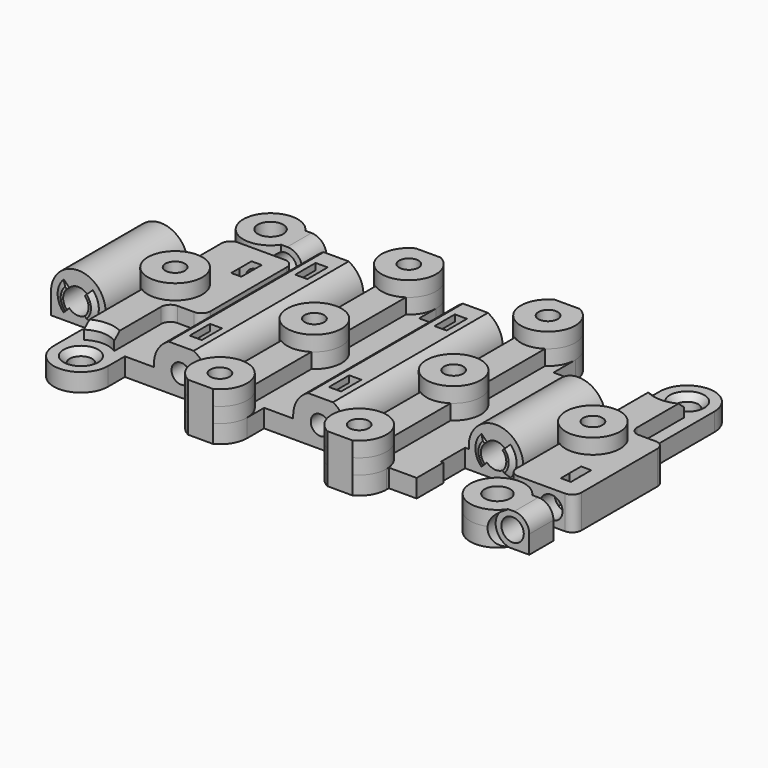
from build123d import *

# Parameters (mm, degrees)
SKETCH025_R             = 1.6
PAD024_DEPTH            = 20
PAD025_DEPTH            = 10
SKETCH031_R             = 1.6
PAD030_DEPTH            = 8.8
PAD031_DEPTH            = 4.2
SKETCH033_R             = 1.6
PAD032_DEPTH            = 20
BODY063_PLACEMENT_ANGLE = 180
BODY064_PLACEMENT_ANGLE = 180
SKETCH006_R             = 2.8
PAD006_DEPTH            = 10
SKETCH007_R             = 1.85
PAD007_DEPTH            = 11
PAD019_DEPTH            = 4.2
SKETCH020_R             = 1.6
PAD020_DEPTH            = 4
BODY010_PLACEMENT_ANGLE = 180
PAD001_DEPTH            = 3
PAD005_DEPTH            = 2.5
PAD009_DEPTH            = 17
PAD_DEPTH               = 0.5
PAD033_DEPTH            = 0.5
SKETCH035_R             = 4.5
PAD034_DEPTH            = 2.5
PAD035_DEPTH            = 32
SKETCH036_R             = 2.1
POCKET_DEPTH            = 40.201
SKETCH037_R             = 1.6
SKETCH037_R_2           = 2.1
SKETCH037_R_3           = 1.85
POCKET001_DEPTH         = 8.001
SKETCH040_W             = 32
SKETCH040_H             = 5
POCKET002_DEPTH         = 8.001
CHAMFER_1_SIZE2         = 0.9
CHAMFER_1_SIZE          = 0.49
CHAMFER_2_SIZE2         = 0.9
CHAMFER_2_SIZE          = 0.49
CHAMFER_3_SIZE2         = 0.9
CHAMFER_3_SIZE          = 0.49
CHAMFER_4_SIZE2         = 0.9
CHAMFER_4_SIZE          = 0.49
CHAMFER_5_SIZE2         = 0.9
CHAMFER_5_SIZE          = 0.49
CHAMFER_6_SIZE2         = 0.9
CHAMFER_6_SIZE          = 0.49
CHAMFER_7_SIZE2         = 0.9
CHAMFER_7_SIZE          = 0.49
CHAMFER_8_SIZE2         = 0.9
CHAMFER_8_SIZE          = 0.49
CHAMFER001_SIZE         = 1
FILLET_R                = 2.49
SKETCH041_R             = 4
PAD036_DEPTH            = 2.5
SKETCH042_R             = 3.4
PAD037_DEPTH            = 0.5
SKETCH043_R             = 2.15
POCKET003_DEPTH         = 3.001
CHAMFER002_SIZE2        = 0.9
CHAMFER002_SIZE         = 0.49


with BuildPart() as attachment_point_tunnel:
    # Sketch025 → Pad024 (new body)
    with BuildSketch(Plane.XY):
        Circle(SKETCH025_R)
    extrude(amount=PAD024_DEPTH)

    # Sketch026 (on Face2 of Pad024) → Pad025 (join)
    with BuildSketch(Plane(origin=(0, 0, 0), x_dir=(1, 0, 0), z_dir=(0, 0, -1))):
        Polygon((0, 3.233162), (-2.8, 1.616581), (-2.8, -1.616581), (0, -3.233162), (2.8, -1.616581), (2.8, 1.616581), align=None)
    extrude(amount=PAD025_DEPTH)


with BuildPart() as plate_attachment_point_8_tunnel:
    # Body055 base: copy of _Attachment_point_tunnel
    add(attachment_point_tunnel.part)


with BuildPart() as plate_attachment_point_8_tunnel_1:
    # Body055 placement: moved
    add(plate_attachment_point_8_tunnel.part.moved(Location((-34.5, 0, 5))))


with BuildPart() as special_attachment_point_tunnel:
    # Sketch031 → Pad030 (new body)
    with BuildSketch(Plane.XZ):
        Circle(SKETCH031_R)
    extrude(amount=PAD030_DEPTH)

    # Sketch032 (on Face3 of Pad030) → Pad031 (join)
    with BuildSketch(Plane.XZ.offset(8.8)):
        Polygon((2.8, 1.883419), (2.8, -8.116581), (-2.8, -8.116581), (-2.8, 1.883419), (-1, 2.92265), (-1, 7.92265), (1, 7.92265), (1, 2.92265), align=None)
    extrude(amount=PAD031_DEPTH)

    # Sketch033 (on Face12 of Pad031) → Pad032 (join)
    with BuildSketch(Plane.XZ.offset(13)):
        Circle(SKETCH033_R)
    extrude(amount=PAD032_DEPTH)


with BuildPart() as body063:
    # Body063 base: copy of _Special_attachment_point_tunnel
    add(special_attachment_point_tunnel.part)


with BuildPart() as body063_1:
    # Body063 placement: moved
    add(body063.part.moved(Location((2.3, 0, 3.5))).rotate(Axis((2.3, 0, 3.5), (0, 0, 1)), BODY063_PLACEMENT_ANGLE))


with BuildPart() as body064:
    # Body064 base: copy of _Special_attachment_point_tunnel
    add(special_attachment_point_tunnel.part)


with BuildPart() as body064_1:
    # Body064 placement: moved
    add(body064.part.moved(Location((-20.7, 0, 3.5))).rotate(Axis((-20.7, 0, 3.5), (0, 0, 1)), BODY064_PLACEMENT_ANGLE))


with BuildPart() as m3_adjust_screw_cutout:
    # Sketch006 → Pad006 (new body)
    with BuildSketch(Plane.XZ):
        Circle(SKETCH006_R)
    extrude(amount=PAD006_DEPTH)

    # Sketch007 (on Face2 of Pad006) → Pad007 (join)
    with BuildSketch(Plane(origin=(0, 0, 0), x_dir=(1, 0, 0), z_dir=(0, 1, 0))):
        Circle(SKETCH007_R)
    extrude(amount=PAD007_DEPTH)

    # Sketch019 (on Face5 of Pad007) → Pad019 (join)
    with BuildSketch(Plane(origin=(0, 11, 0), x_dir=(1, 0, 0), z_dir=(0, 1, 0))):
        Polygon((0, -3.233162), (-2.8, -1.616581), (-2.8, 10), (2.8, 10), (2.8, -1.616581), align=None)
    extrude(amount=PAD019_DEPTH)

    # Sketch020 (on Face11 of Pad019) → Pad020 (join)
    with BuildSketch(Plane(origin=(0, 15.2, 0), x_dir=(1, 0, 0), z_dir=(0, 1, 0))):
        Circle(SKETCH020_R)
    extrude(amount=PAD020_DEPTH)


with BuildPart() as plate_top_adjust_screw_cutout:
    # Body010 base: copy of _M3_adjust_screw_cutout
    add(m3_adjust_screw_cutout.part)


with BuildPart() as plate_top_adjust_screw_cutout_1:
    # Body010 placement: moved
    add(plate_top_adjust_screw_cutout.part.moved(Location((-30, 22.2, 2.75))).rotate(Axis((-30, 22.2, 2.75), (0, 0, 1)), BODY010_PLACEMENT_ANGLE))


with BuildPart() as plate_bottom_adjust_screw_cutout:
    # Body009 base: copy of _M3_adjust_screw_cutout
    add(m3_adjust_screw_cutout.part)


with BuildPart() as plate_bottom_adjust_screw_cutout_1:
    # Body009 placement: moved
    add(plate_bottom_adjust_screw_cutout.part.moved(Location((39, -22.2, 2.75))))


with BuildPart() as plate_attachment_point_3_tunnel:
    # Body050 base: copy of _Attachment_point_tunnel
    add(attachment_point_tunnel.part)


with BuildPart() as plate_attachment_point_3_tunnel_1:
    # Body050 placement: moved
    add(plate_attachment_point_3_tunnel.part.moved(Location((11.5, 0, 5))))


with BuildPart() as plate_attachment_point_6_tunnel:
    # Body053 base: copy of _Attachment_point_tunnel
    add(attachment_point_tunnel.part)


with BuildPart() as plate_attachment_point_6_tunnel_1:
    # Body053 placement: moved
    add(plate_attachment_point_6_tunnel.part.moved(Location((-11.5, 0, 5))))


with BuildPart() as plate_attachment_point_7_tunnel:
    # Body054 base: copy of _Attachment_point_tunnel
    add(attachment_point_tunnel.part)


with BuildPart() as plate_attachment_point_7_tunnel_1:
    # Body054 placement: moved
    add(plate_attachment_point_7_tunnel.part.moved(Location((34.5, 0, 5))))


with BuildPart() as body061:
    # Body061 base: copy of _Special_attachment_point_tunnel
    add(special_attachment_point_tunnel.part)


with BuildPart() as body061_1:
    # Body061 placement: moved
    add(body061.part.moved(Location((2.3, 0, 3.5))))


with BuildPart() as body062:
    # Body062 base: copy of _Special_attachment_point_tunnel
    add(special_attachment_point_tunnel.part)


with BuildPart() as body062_1:
    # Body062 placement: moved
    add(body062.part.moved(Location((-20.7, 0, 3.5))))


with BuildPart() as plate:
    # Sketch001 → Pad001 (new body)
    with BuildSketch(Plane.XY):
        with BuildLine():
            Line((-26.25, 16), (-16, 16))
            Line((-16, 16), (-16, 19.5))
            ThreePointArc((-7, 19.5), (-11.5, 24), (-16, 19.5))
            Line((-7, 19.5), (-7, 16))
            Line((-7, 16), (7, 16))
            Line((7, 16), (7, 19.5))
            ThreePointArc((16, 19.5), (11.5, 24), (7, 19.5))
            Line((16, 19.5), (16, 15))
            Line((16, 15), (20.6, 15))
            Line((20.6, 15), (20.6, 13.5))
            Line((20.6, 13.5), (20.2, 13.5))
            Line((20.2, 13.5), (20.2, 8.5))
            Line((20.2, 8.5), (30.4, 8.5))
            Line((30.4, 8.5), (30.4, 13.5))
            Line((30.4, 13.5), (30, 13.5))
            Line((30, 13.5), (30, 19.45))
            ThreePointArc((39, 19.45), (34.5, 23.95), (30, 19.45))
            Line((39, 19.45), (39, 6))
            ThreePointArc((39, 6), (39.43934, 4.93934), (40.5, 4.5))
            Line((40.5, 4.5), (41.25, 4.5))
            ThreePointArc((42.75, 3), (42.31066, 4.06066), (41.25, 4.5))
            Line((42.75, 3), (42.75, -12.7))
            ThreePointArc((41.25, -14.2), (42.31066, -13.76066), (42.75, -12.7))
            Line((31, -14.2), (41.25, -14.2))
            Line((31, -15.2), (31, -14.2))
            Line((31, -15.2), (34.5, -15.2))
            ThreePointArc((38.241657, -17.2), (36.62132, -15.731373), (34.5, -15.2))
            Line((38.241657, -17.2), (41.75, -17.2))
            Line((41.75, -17.2), (41.75, -22.2))
            Line((38.241657, -22.2), (41.75, -22.2))
            ThreePointArc((30, -19.7), (33.193757, -24.006243), (38.241657, -22.2))
            Line((30, -19.7), (30, -13.5))
            Line((30, -13.5), (30.4, -13.5))
            Line((30.4, -13.5), (30.4, -8.5))
            Line((20.2, -8.5), (30.4, -8.5))
            Line((20.2, -13.5), (20.2, -8.5))
            Line((20.6, -13.5), (20.2, -13.5))
            Line((20.6, -19), (20.6, -13.5))
            Line((16, -19), (20.6, -19))
            Line((16, -19.5), (16, -19))
            ThreePointArc((7, -19.5), (11.5, -24), (16, -19.5))
            Line((7, -19.5), (7, -16))
            Line((7, -16), (-7, -16))
            Line((-7, -19.5), (-7, -16))
            ThreePointArc((-16, -19.5), (-11.5, -24), (-7, -19.5))
            Line((-16, -19.5), (-16, -16))
            Line((-16, -16), (-30, -16))
            Line((-30, -19.45), (-30, -16))
            ThreePointArc((-39, -19.45), (-34.5, -23.95), (-30, -19.45))
            Line((-39, -13.5), (-39, -19.45))
            Line((-38.6, -13.5), (-39, -13.5))
            Line((-38.6, -8.5), (-38.6, -13.5))
            Line((-48.2, -8.5), (-38.6, -8.5))
            Line((-48.2, 8.5), (-48.2, -8.5))
            Line((-38.6, 8.5), (-48.2, 8.5))
            Line((-38.6, 13.5), (-38.6, 8.5))
            Line((-39, 13.5), (-38.6, 13.5))
            Line((-39, 19.7), (-39, 13.5))
            ThreePointArc((-30.758343, 22.2), (-35.806243, 24.006243), (-39, 19.7))
            Line((-30.758343, 22.2), (-27.25, 22.2))
            Line((-27.25, 22.2), (-27.25, 17.2))
            Line((-30.758343, 17.2), (-27.25, 17.2))
            ThreePointArc((-34.5, 15.2), (-32.37868, 15.731373), (-30.758343, 17.2))
            Line((-38, 15.2), (-34.5, 15.2))
            Line((-38, 15.2), (-38, 14.2))
            Line((-38, 14.2), (-26.25, 14.2))
            Line((-26.25, 14.2), (-26.25, 16))
        make_face()
    extrude(amount=PAD001_DEPTH)

    # Sketch005 (on Face69 of Pad001) → Pad005 (join)
    with BuildSketch(Plane.XY.offset(3)):
        with BuildLine():
            Line((-27.25, 22.2), (-27.25, 17.2))
            Line((-30.758343, 17.2), (-27.25, 17.2))
            ThreePointArc((-30.758343, 22.2), (-39, 19.7), (-30.758343, 17.2))
            Line((-30.758343, 22.2), (-27.25, 22.2))
        make_face()
        with BuildLine():
            Line((38.241657, -22.2), (41.75, -22.2))
            Line((41.75, -22.2), (41.75, -17.2))
            Line((38.241657, -17.2), (41.75, -17.2))
            ThreePointArc((38.241657, -17.2), (30, -19.7), (38.241657, -22.2))
        make_face()
        with BuildLine():
            Line((41.25, -14.2), (33.5, -14.2))
            ThreePointArc((32, -12.7), (32.43934, -13.76066), (33.5, -14.2))
            Line((32, -3.741657), (32, -12.7))
            ThreePointArc((32, 3.741657), (30, 0), (32, -3.741657))
            Line((32, 15.708343), (32, 3.741657))
            ThreePointArc((32, 15.708343), (34.5, 14.95), (37, 15.708343))
            Line((37, 6), (37, 15.708343))
            ThreePointArc((37, 6), (37.43934, 4.93934), (38.5, 4.5))
            Line((38.5, 4.5), (41.25, 4.5))
            ThreePointArc((42.75, 3), (42.31066, 4.06066), (41.25, 4.5))
            Line((42.75, 3), (42.75, -12.7))
            ThreePointArc((41.25, -14.2), (42.31066, -13.76066), (42.75, -12.7))
        make_face()
        with BuildLine():
            Line((-27.75, 14.2), (-35.5, 14.2))
            ThreePointArc((-35.5, 14.2), (-36.56066, 13.76066), (-37, 12.7))
            Line((-37, 3.741657), (-37, 12.7))
            ThreePointArc((-37, 3.741657), (-39, 0), (-37, -3.741657))
            Line((-37, -15.708343), (-37, -3.741657))
            ThreePointArc((-32, -15.708343), (-34.5, -14.95), (-37, -15.708343))
            Line((-32, -15.708343), (-32, -6))
            ThreePointArc((-30.5, -4.5), (-31.56066, -4.93934), (-32, -6))
            Line((-27.75, -4.5), (-30.5, -4.5))
            ThreePointArc((-27.75, -4.5), (-26.68934, -4.06066), (-26.25, -3))
            Line((-26.25, -3), (-26.25, 12.7))
            ThreePointArc((-26.25, 12.7), (-26.68934, 13.76066), (-27.75, 14.2))
        make_face()
        with BuildLine():
            ThreePointArc((14, -3.741657), (16, 0), (14, 3.741657))
            Line((14, 15.758343), (14, 3.741657))
            ThreePointArc((14, 15.758343), (11.5, 24), (9, 15.758343))
            Line((9, 15.758343), (9, 3.741657))
            ThreePointArc((9, 3.741657), (7, 0), (9, -3.741657))
            Line((9, -15.758343), (9, -3.741657))
            ThreePointArc((9, -15.758343), (11.5, -24), (14, -15.758343))
            Line((14, -15.758343), (14, -3.741657))
        make_face()
        with BuildLine():
            ThreePointArc((-9, 15.758343), (-11.5, 24), (-14, 15.758343))
            Line((-14, 15.758343), (-14, 3.741657))
            ThreePointArc((-14, 3.741657), (-16, 0), (-14, -3.741657))
            Line((-14, -3.741657), (-14, -15.758343))
            ThreePointArc((-14, -15.758343), (-11.5, -24), (-9, -15.758343))
            Line((-9, -3.741657), (-9, -15.758343))
            ThreePointArc((-9, -3.741657), (-7, 0), (-9, 3.741657))
            Line((-9, 15.758343), (-9, 3.741657))
        make_face()
    extrude(amount=PAD005_DEPTH)

    # Sketch009 (on Face61 of Pad005) → Pad009 (join)
    with BuildSketch(Plane.XZ.offset(8.5)):
        with BuildLine():
            Line((20.8, 2.5), (20.8, 3.5))
            ThreePointArc((29.8, 3.5), (25.3, 8), (20.8, 3.5))
            Line((29.8, 3.5), (29.8, 2.5))
            Line((29.8, 2.5), (20.8, 2.5))
        make_face()
        with BuildLine():
            Line((-48.2, 3.5), (-48.2, 2.5))
            Line((-39.2, 2.5), (-48.2, 2.5))
            Line((-39.2, 3.5), (-39.2, 2.5))
            ThreePointArc((-39.2, 3.5), (-43.7, 8), (-48.2, 3.5))
        make_face()
    extrude(amount=-PAD009_DEPTH)

    # Sketch (on Face61 of Pad009) → Pad (join)
    with BuildSketch(Plane.XZ.offset(8.5)):
        with BuildLine():
            ThreePointArc((-46.104163, 5.904163), (-47.1, 3.5), (-46.104163, 1.095837))
            Line((-46.104163, 1.095837), (-44.053553, 3.146447))
            ThreePointArc((-44.053553, 3.853553), (-44.2, 3.5), (-44.053553, 3.146447))
            Line((-46.104163, 5.904163), (-44.053553, 3.853553))
        make_face()
        with BuildLine():
            ThreePointArc((-41.295837, 1.095837), (-40.3, 3.5), (-41.295837, 5.904163))
            Line((-43.346447, 3.853553), (-41.295837, 5.904163))
            ThreePointArc((-43.346447, 3.146447), (-43.2, 3.5), (-43.346447, 3.853553))
            Line((-43.346447, 3.146447), (-41.295837, 1.095837))
        make_face()
        with BuildLine():
            ThreePointArc((22.895837, 5.904163), (21.9, 3.5), (22.895837, 1.095837))
            Line((24.946447, 3.146447), (22.895837, 1.095837))
            ThreePointArc((24.946447, 3.853553), (24.8, 3.5), (24.946447, 3.146447))
            Line((22.895837, 5.904163), (24.946447, 3.853553))
        make_face()
        with BuildLine():
            ThreePointArc((27.704163, 1.095837), (28.7, 3.5), (27.704163, 5.904163))
            Line((25.653553, 3.853553), (27.704163, 5.904163))
            ThreePointArc((25.653553, 3.146447), (25.8, 3.5), (25.653553, 3.853553))
            Line((25.653553, 3.146447), (27.704163, 1.095837))
        make_face()
    extrude(amount=PAD_DEPTH)

    # Sketch034 (on Face63 of Pad) → Pad033 (join)
    with BuildSketch(Plane(origin=(0, 8.5, 0), x_dir=(-1, 0, 0), z_dir=(0, 1, 0))):
        with BuildLine():
            ThreePointArc((-27.704163, 5.904163), (-28.7, 3.5), (-27.704163, 1.095837))
            Line((-27.704163, 1.095837), (-25.653553, 3.146447))
            ThreePointArc((-25.653553, 3.853553), (-25.8, 3.5), (-25.653553, 3.146447))
            Line((-27.704163, 5.904163), (-25.653553, 3.853553))
        make_face()
        with BuildLine():
            ThreePointArc((-22.895837, 1.095837), (-21.9, 3.5), (-22.895837, 5.904163))
            Line((-24.946447, 3.853553), (-22.895837, 5.904163))
            ThreePointArc((-24.946447, 3.146447), (-24.8, 3.5), (-24.946447, 3.853553))
            Line((-24.946447, 3.146447), (-22.895837, 1.095837))
        make_face()
        with BuildLine():
            ThreePointArc((41.295837, 5.904163), (40.3, 3.5), (41.295837, 1.095837))
            Line((41.295837, 1.095837), (43.346447, 3.146447))
            ThreePointArc((43.346447, 3.853553), (43.2, 3.5), (43.346447, 3.146447))
            Line((41.295837, 5.904163), (43.346447, 3.853553))
        make_face()
        with BuildLine():
            ThreePointArc((46.104163, 1.095837), (47.1, 3.5), (46.104163, 5.904163))
            Line((44.053553, 3.853553), (46.104163, 5.904163))
            ThreePointArc((44.053553, 3.146447), (44.2, 3.5), (44.053553, 3.853553))
            Line((44.053553, 3.146447), (46.104163, 1.095837))
        make_face()
    extrude(amount=PAD033_DEPTH)

    # Sketch035 (on Face137 of Pad033) → Pad034 (join)
    with BuildSketch(Plane.XY.offset(5.5)):
        with Locations((-34.5, 0)):
            Circle(SKETCH035_R)
        with Locations((-11.5, -19.5)):
            Circle(SKETCH035_R)
        with Locations((11.5, -19.5)):
            Circle(SKETCH035_R)
        with Locations((34.5, 0)):
            Circle(SKETCH035_R)
        with Locations((11.5, 19.5)):
            Circle(SKETCH035_R)
        with Locations((11.5, 0)):
            Circle(SKETCH035_R)
        with Locations((-11.5, 0)):
            Circle(SKETCH035_R)
        with Locations((-11.5, 19.5)):
            Circle(SKETCH035_R)
    extrude(amount=PAD034_DEPTH)

    # Sketch039 (on Face55 of Pad034) → Pad035 (join)
    with BuildSketch(Plane.XZ.offset(16)):
        with BuildLine():
            Line((-25.2, 3.5), (-25.2, 2.5))
            Line((-16.2, 2.5), (-25.2, 2.5))
            Line((-16.2, 3.5), (-16.2, 2.5))
            ThreePointArc((-16.2, 3.5), (-16.857671, 5.842329), (-18.638447, 7.5))
            Line((-22.761553, 7.5), (-18.638447, 7.5))
            ThreePointArc((-22.761553, 7.5), (-24.542329, 5.842329), (-25.2, 3.5))
        make_face()
        with BuildLine():
            Line((-2.2, 3.5), (-2.2, 2.5))
            Line((6.8, 2.5), (-2.2, 2.5))
            Line((6.8, 3.5), (6.8, 2.5))
            ThreePointArc((6.8, 3.5), (6.142329, 5.842329), (4.361553, 7.5))
            Line((0.238447, 7.5), (4.361553, 7.5))
            ThreePointArc((0.238447, 7.5), (-1.542329, 5.842329), (-2.2, 3.5))
        make_face()
    extrude(amount=-PAD035_DEPTH)

    # Sketch036 (on Face55 of Pad035) → Pocket (cut, through all)
    with BuildSketch(Plane.XZ.offset(16)):
        with Locations((-43.7, 3.5)):
            Circle(SKETCH036_R)
        with Locations((25.3, 3.5)):
            Circle(SKETCH036_R)
    extrude(amount=-POCKET_DEPTH, mode=Mode.SUBTRACT)

    # Sketch037 (on Face4 of Pocket) → Pocket001 (cut, through all)
    with BuildSketch(Plane(origin=(0, 0, 0), x_dir=(1, 0, 0), z_dir=(0, 0, -1))):
        with Locations((-11.5, 19.5)):
            Circle(SKETCH037_R)
        with Locations((11.5, 19.5)):
            Circle(SKETCH037_R)
        with Locations((34.5, 19.7)):
            Circle(SKETCH037_R_2)
        with Locations((-34.5, -19.7)):
            Circle(SKETCH037_R_2)
        with Locations((-11.5, -19.5)):
            Circle(SKETCH037_R)
        with Locations((11.5, -19.5)):
            Circle(SKETCH037_R)
        with Locations((-34.5, 19.45)):
            Circle(SKETCH037_R_3)
        with Locations((34.5, -19.45)):
            Circle(SKETCH037_R_3)
    extrude(amount=-POCKET001_DEPTH, mode=Mode.SUBTRACT)

    # Sketch040 (on Face150 of Pocket001) → Pocket002 (cut, through all)
    with BuildSketch(Plane.XY.offset(8)):
        with Locations((0, -26)):
            Rectangle(SKETCH040_W, SKETCH040_H)
        with Locations((0, 26)):
            Rectangle(SKETCH040_W, SKETCH040_H)
    extrude(amount=-POCKET002_DEPTH, mode=Mode.SUBTRACT)

    # Chamfer 1
    chamfer_1_edges = [plate.edges().sort_by_distance(p)[0] for p in [
        (-47.1, -9, 3.5),
    ]]
    chamfer_1_side = plate.faces().sort_by_distance((-47.1, -8.75, 3.5))[0]
    chamfer(chamfer_1_edges, length=CHAMFER_1_SIZE, length2=CHAMFER_1_SIZE2, reference=chamfer_1_side)

    # Chamfer 2
    chamfer_2_edges = [plate.edges().sort_by_distance(p)[0] for p in [
        (-40.3, -9, 3.5),
    ]]
    chamfer_2_side = plate.faces().sort_by_distance((-40.787231, -8.549358, 1.74621))[0]
    chamfer(chamfer_2_edges, length=CHAMFER_2_SIZE, length2=CHAMFER_2_SIZE2, reference=chamfer_2_side)

    # Chamfer 3
    chamfer_3_edges = [plate.edges().sort_by_distance(p)[0] for p in [
        (21.9, -9, 3.5),
    ]]
    chamfer_3_side = plate.faces().sort_by_distance((21.9, -8.75, 3.5))[0]
    chamfer(chamfer_3_edges, length=CHAMFER_3_SIZE, length2=CHAMFER_3_SIZE2, reference=chamfer_3_side)

    # Chamfer 4
    chamfer_4_edges = [plate.edges().sort_by_distance(p)[0] for p in [
        (28.7, -9, 3.5),
    ]]
    chamfer_4_side = plate.faces().sort_by_distance((28.7, -8.75, 3.5))[0]
    chamfer(chamfer_4_edges, length=CHAMFER_4_SIZE, length2=CHAMFER_4_SIZE2, reference=chamfer_4_side)

    # Chamfer 5
    chamfer_5_edges = [plate.edges().sort_by_distance(p)[0] for p in [
        (28.7, 9, 3.5),
    ]]
    chamfer_5_side = plate.faces().sort_by_distance((28.7, 8.75, 3.5))[0]
    chamfer(chamfer_5_edges, length=CHAMFER_5_SIZE, length2=CHAMFER_5_SIZE2, reference=chamfer_5_side)

    # Chamfer 6
    chamfer_6_edges = [plate.edges().sort_by_distance(p)[0] for p in [
        (21.9, 9, 3.5),
    ]]
    chamfer_6_side = plate.faces().sort_by_distance((21.9, 8.75, 3.5))[0]
    chamfer(chamfer_6_edges, length=CHAMFER_6_SIZE, length2=CHAMFER_6_SIZE2, reference=chamfer_6_side)

    # Chamfer 7
    chamfer_7_edges = [plate.edges().sort_by_distance(p)[0] for p in [
        (-40.3, 9, 3.5),
    ]]
    chamfer_7_side = plate.faces().sort_by_distance((-40.3, 8.75, 3.5))[0]
    chamfer(chamfer_7_edges, length=CHAMFER_7_SIZE, length2=CHAMFER_7_SIZE2, reference=chamfer_7_side)

    # Chamfer 8
    chamfer_8_edges = [plate.edges().sort_by_distance(p)[0] for p in [
        (-47.1, 9, 3.5),
    ]]
    chamfer_8_side = plate.faces().sort_by_distance((-46.612769, 8.549358, 1.74621))[0]
    chamfer(chamfer_8_edges, length=CHAMFER_8_SIZE, length2=CHAMFER_8_SIZE2, reference=chamfer_8_side)

    # Chamfer001
    chamfer001_edges = [plate.edges().sort_by_distance(p)[0] for p in [
        (-34.5, -14.95, 5.5),
        (-36.35, -19.45, 3),
        (34.5, 14.95, 5.5),
        (32.65, 19.45, 3),
    ]]
    chamfer(chamfer001_edges, length=CHAMFER001_SIZE)

    # Fillet
    fillet_edges = [plate.edges().sort_by_distance(p)[0] for p in [
        (-27.25, 19.7, 5.5),
        (41.75, -19.7, 5.5),
    ]]
    fillet(fillet_edges, radius=FILLET_R)

    # Boolean: cut Plate_attachment_point_8_tunnel, Body063, Body064, Plate_top_adjust_screw_cutout, Plate_bottom_adjust_screw_cutout, Plate_attachment_point_3_tunnel, Plate_attachment_point_6_tunnel, Plate_attachment_point_7_tunnel, Body061, Body062
    add(plate_attachment_point_8_tunnel_1.part, mode=Mode.SUBTRACT)
    add(body063_1.part, mode=Mode.SUBTRACT)
    add(body064_1.part, mode=Mode.SUBTRACT)
    add(plate_top_adjust_screw_cutout_1.part, mode=Mode.SUBTRACT)
    add(plate_bottom_adjust_screw_cutout_1.part, mode=Mode.SUBTRACT)
    add(plate_attachment_point_3_tunnel_1.part, mode=Mode.SUBTRACT)
    add(plate_attachment_point_6_tunnel_1.part, mode=Mode.SUBTRACT)
    add(plate_attachment_point_7_tunnel_1.part, mode=Mode.SUBTRACT)
    add(body061_1.part, mode=Mode.SUBTRACT)
    add(body062_1.part, mode=Mode.SUBTRACT)


with BuildPart() as spacer:
    # Sketch041 → Pad036 (new body)
    with BuildSketch(Plane.XY):
        Circle(SKETCH041_R)
    extrude(amount=PAD036_DEPTH)

    # Sketch042 (on Face3 of Pad036) → Pad037 (join)
    with BuildSketch(Plane.XY.offset(2.5)):
        Circle(SKETCH042_R)
    extrude(amount=PAD037_DEPTH)

    # Sketch043 (on Face5 of Pad037) → Pocket003 (cut, through all)
    with BuildSketch(Plane.XY.offset(3)):
        Circle(SKETCH043_R)
    extrude(amount=-POCKET003_DEPTH, mode=Mode.SUBTRACT)

    # Chamfer002
    chamfer002_edges = [spacer.edges().sort_by_distance(p)[0] for p in [
        (-3.4, 0, 3),
    ]]
    chamfer002_side = spacer.faces().sort_by_distance((-3.4, 0, 2.75))[0]
    chamfer(chamfer002_edges, length=CHAMFER002_SIZE, length2=CHAMFER002_SIZE2, reference=chamfer002_side)


solid = Compound([plate.part, spacer.part])
